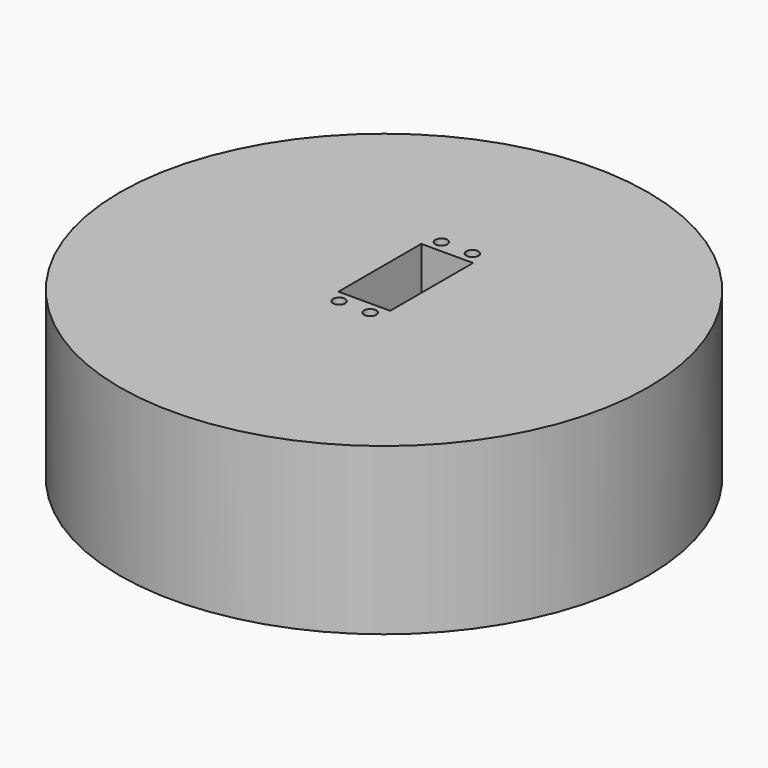
from build123d import *

# Parameters (mm, degrees)
F0_R     = 102
F0_R_2   = 2.35
F0_W     = 20
F0_H     = 40
F1_DEPTH = 64


with BuildPart() as f1:
    # F0 (on Top) → F1 (new body)
    with BuildSketch(Plane.XY):
        Circle(F0_R)
        with Locations((-6, -14.2)):
            Circle(F0_R_2, mode=Mode.SUBTRACT)
        with Locations((6, -14.2)):
            Circle(F0_R_2, mode=Mode.SUBTRACT)
        with Locations((-6, 35.2)):
            Circle(F0_R_2, mode=Mode.SUBTRACT)
        with Locations((0, 10.5)):
            Rectangle(F0_W, F0_H, mode=Mode.SUBTRACT)
        with Locations((6, 35.2)):
            Circle(F0_R_2, mode=Mode.SUBTRACT)
    extrude(amount=F1_DEPTH)


solid = f1.part
